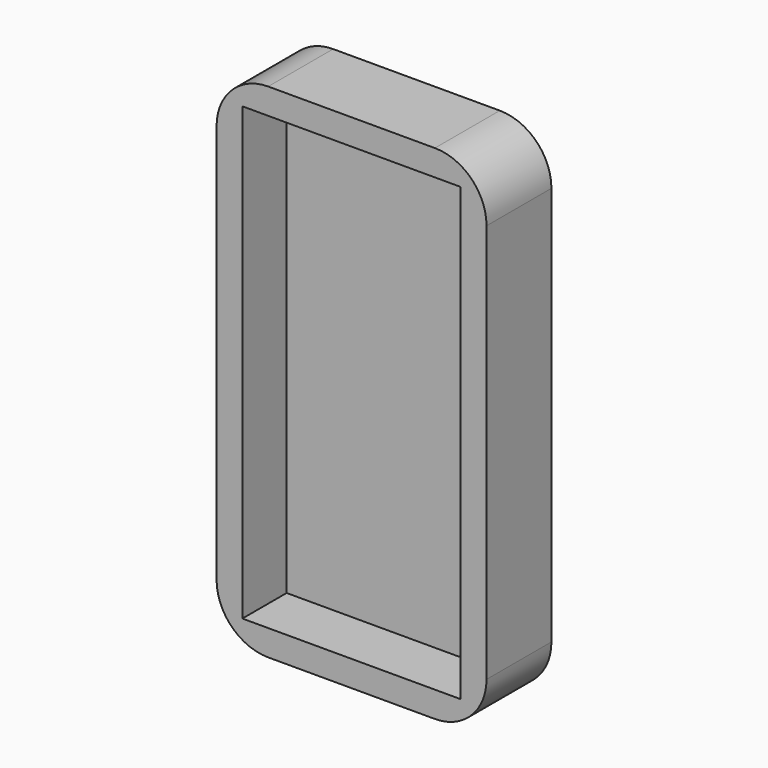
from build123d import *

# Parameters (mm, degrees)
F0_W     = 26.141723
F0_H     = 48.671415
F1_DEPTH = 7.857718
F2_T     = -2.5
F3_R     = 5


with BuildPart() as f1:
    # F0 (on Front) → F1 (new body)
    with BuildSketch(Plane.XZ):
        with Locations((0.317732, -7.252515)):
            Rectangle(F0_W, F0_H)
    extrude(amount=F1_DEPTH)

    # F2
    f2_openings = [f1.faces().sort_by_distance(p)[0] for p in [
        (0.317732, -7.857718, -7.252515),
    ]]
    offset(amount=F2_T, openings=f2_openings)

    # F3
    f3_edges = [f1.edges().sort_by_distance(p)[0] for p in [
        (13.388594, -3.928859, 17.083192),
        (-12.753129, -3.928859, 17.083192),
        (-12.753129, -3.928859, -31.588223),
        (13.388594, -3.928859, -31.588223),
    ]]
    fillet(f3_edges, radius=F3_R)


solid = f1.part
